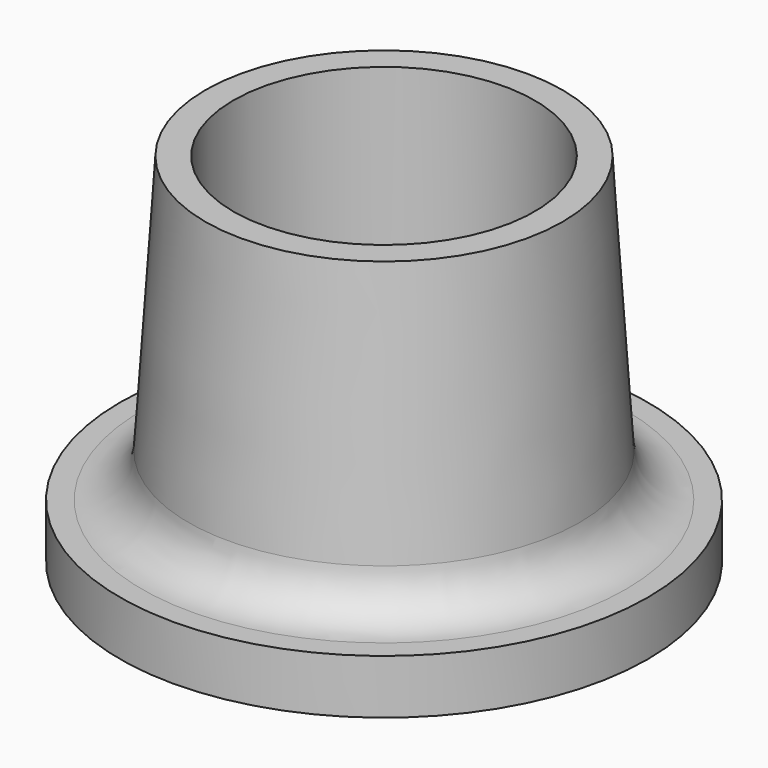
from build123d import *

# Parameters (mm, degrees)
F1_R     = 13
F2_R     = 11.5
F5_D     = 19.4
F6_R     = 17
F7_DEPTH = 3.5
F8_R     = 3


with BuildPart() as f3:
    # F1 (on Top) → F3 section 0
    with BuildSketch(Plane.XY):
        Circle(F1_R)
    # F2 (on offset) → F3 section 1
    with BuildSketch(Plane.XY.offset(23)):
        Circle(F2_R)
    loft()

    # F5 (through all)
    with Locations(Plane(origin=(0, 0, 0), x_dir=(1, 0, 0), z_dir=(0, 0, -1))):
        with Locations((0, 0)):
            Hole(F5_D / 2)

    # F6 (on Top) → F7 (join)
    with BuildSketch(Plane.XY):
        Circle(F6_R)
    extrude(amount=F7_DEPTH)

    # F8
    f8_edges = [f3.edges().sort_by_distance(p)[0] for p in [
        (-12.771739, 0, 3.5),
    ]]
    fillet(f8_edges, radius=F8_R)


solid = f3.part
